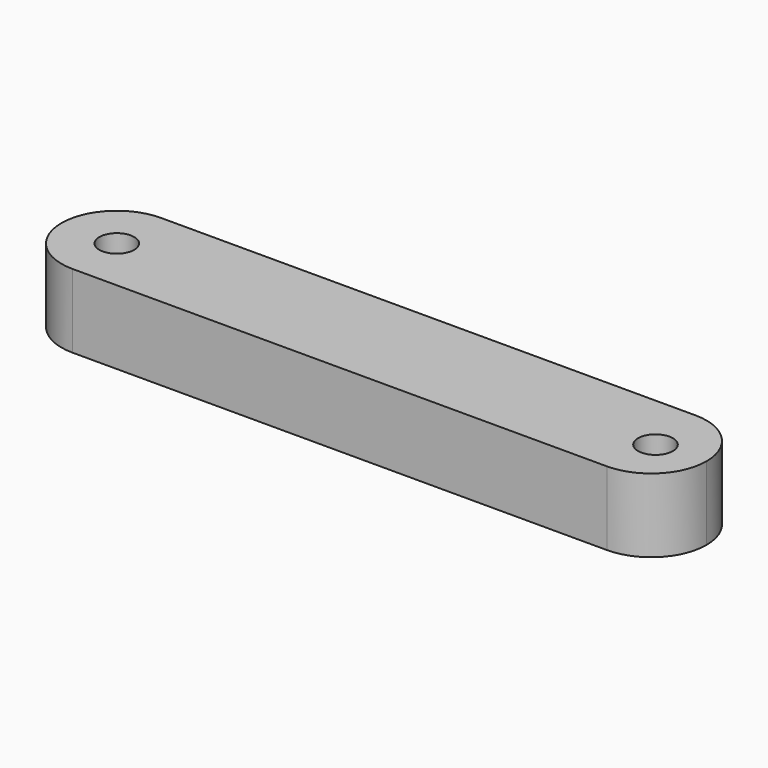
from build123d import *

# Parameters (mm, degrees)
F1_DEPTH = 4
F3_D     = 1.89
F5_D     = 1.89


with BuildPart() as f1:
    # F0 (on Top) → F1 (new body)
    with BuildSketch(Plane.XY):
        with BuildLine():
            ThreePointArc((0, 3), (0.8786796564, 0.8786796564), (3, 0))
            Line((3, 0), (32, 0))
            ThreePointArc((32, 0), (34.1213203436, 0.8786796564), (35, 3))
            ThreePointArc((35, 3), (34.1213203436, 5.1213203436), (32, 6))
            Line((32, 6), (3, 6))
            ThreePointArc((3, 6), (0.8786796564, 5.1213203436), (0, 3))
        make_face()
    extrude(amount=F1_DEPTH)

    # F3 (through all)
    with Locations(Plane.XY.offset(4)):
        with Locations((3, 3)):
            Hole(F3_D / 2)

    # F5 (through all)
    with Locations(Plane(origin=(0, 0, 0), x_dir=(1, 0, 0), z_dir=(0, 0, -1))):
        with Locations((32.3587208986, -2.8431627434)):
            Hole(F5_D / 2)


solid = f1.part
